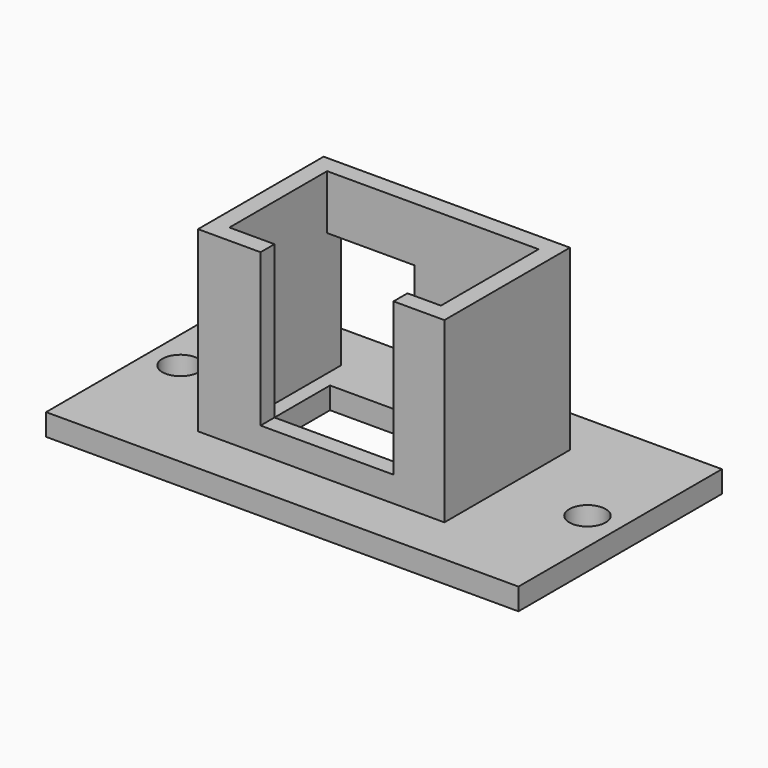
from build123d import *

# Parameters (mm, degrees)
F0_W     = 32.5
F0_H     = 17.5
F0_R     = 1.25
F1_DEPTH = 1.5
F2_W     = 16.95
F2_H     = 10.8
F2_W_2   = 14.55
F2_H_2   = 8.4
F3_DEPTH = 12.25
F4_W     = 9.15
F4_H     = 10.5
F5_DEPTH = 1.2
F6_W     = 6
F6_H     = 8.5
F7_DEPTH = 1.2
F8_W     = 12.55
F8_H     = 6.4
F9_DEPTH = 25


with BuildPart() as f1:
    # F0 (on Top) → F1 (new body)
    with BuildSketch(Plane.XY):
        Rectangle(F0_W, F0_H)
        with Locations((-14, 0)):
            Circle(F0_R, mode=Mode.SUBTRACT)
        with Locations((14, 0)):
            Circle(F0_R, mode=Mode.SUBTRACT)
    extrude(amount=F1_DEPTH)

    # F2 (on face) → F3 (join)
    with BuildSketch(Plane.XY.offset(1.5)):
        Rectangle(F2_W, F2_H)
        Rectangle(F2_W_2, F2_H_2, mode=Mode.SUBTRACT)
    extrude(amount=F3_DEPTH)

    # F4 (on face) → F5 (cut, through all)
    with BuildSketch(Plane.XZ.offset(5.4)):
        with Locations((0.4, 8.5)):
            Rectangle(F4_W, F4_H)
    extrude(amount=-F5_DEPTH, mode=Mode.SUBTRACT)

    # F6 (on face) → F7 (cut, through all)
    with BuildSketch(Plane(origin=(0, 5.4, 0), x_dir=(-1, 0, 0), z_dir=(0, 1, 0))):
        with Locations((4.275, 5.75)):
            Rectangle(F6_W, F6_H)
    extrude(amount=-F7_DEPTH, mode=Mode.SUBTRACT)

    # F8 (on face) → F9 (cut)
    with BuildSketch(Plane.XY.offset(1.5)):
        Rectangle(F8_W, F8_H)
    extrude(amount=-F9_DEPTH, mode=Mode.SUBTRACT)


solid = f1.part
